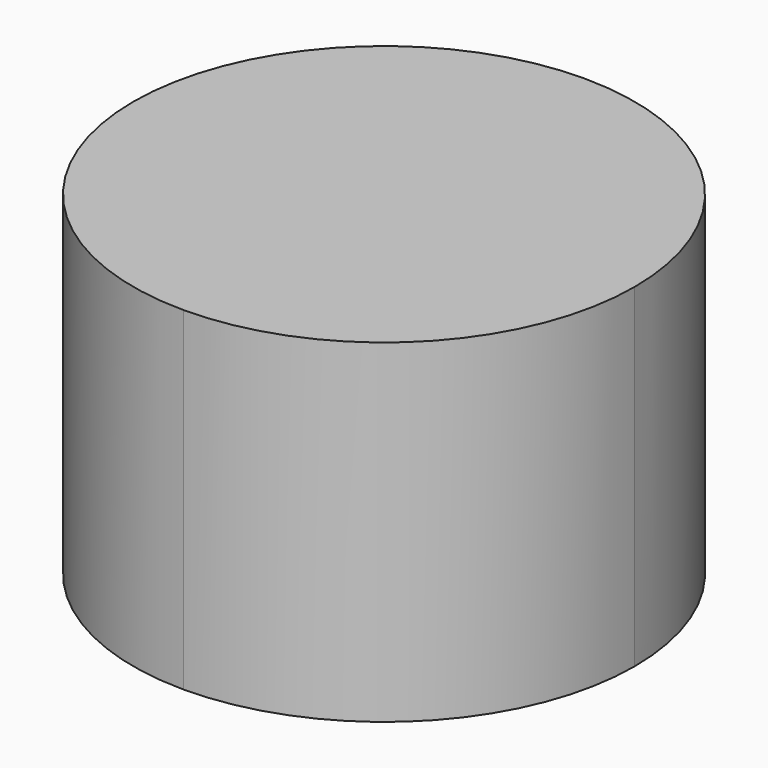
from build123d import *

# Parameters (mm, degrees)
F1_DEPTH = 50.8


with BuildPart() as f1:
    # F0 (on Top) → F1 (new body)
    with BuildSketch(Plane.XY):
        with BuildLine():
            Line((0, -38.123054), (0, 0))
            Line((0, 0), (-38.123054, 0))
            ThreePointArc((-38.123054, 0), (-26.95707, -26.95707), (0, -38.123054))
        make_face()
        with BuildLine():
            Line((-38.123054, 0), (0, 0))
            Line((0, 0), (0, 38.123054))
            ThreePointArc((0, 38.123054), (-26.95707, 26.95707), (-38.123054, 0))
        make_face()
        with BuildLine():
            Line((38.123054, 0), (0, 0))
            Line((0, 0), (0, -38.123054))
            ThreePointArc((0, -38.123054), (26.95707, -26.95707), (38.123054, 0))
        make_face()
        with BuildLine():
            Line((0, 38.123054), (0, 0))
            Line((0, 0), (38.123054, 0))
            ThreePointArc((38.123054, 0), (26.95707, 26.95707), (0, 38.123054))
        make_face()
    extrude(amount=-F1_DEPTH)


solid = f1.part
